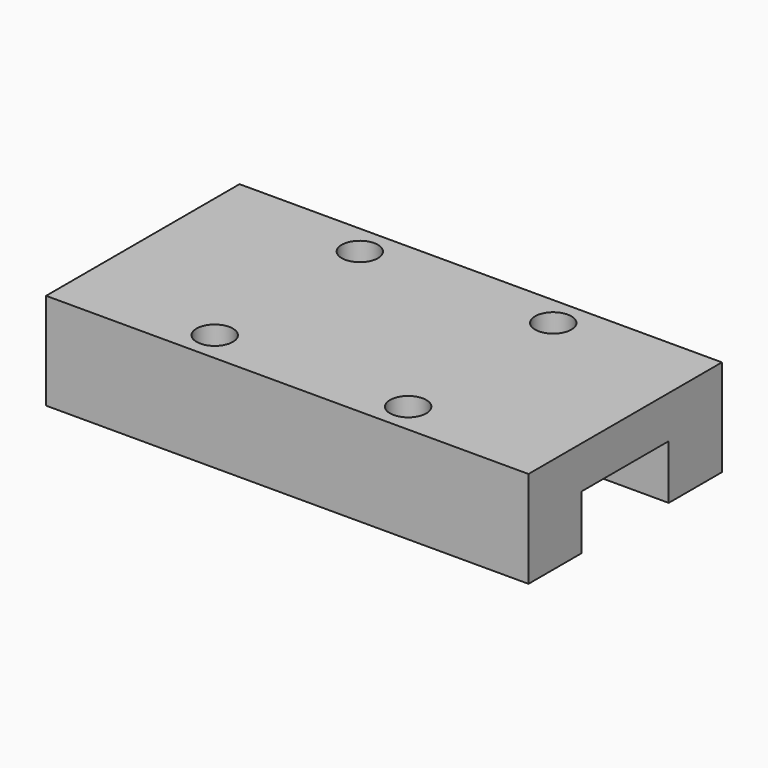
from build123d import *

# Parameters (mm, degrees)
SKETCH_W        = 39.9
SKETCH_H        = 20
PAD_DEPTH       = 8
SKETCH001_W     = 39.9
SKETCH001_H     = 9
POCKET_DEPTH    = 4.5
SKETCH002_R     = 1.5
POCKET001_DEPTH = 4


with BuildPart() as part:
    # Sketch → Pad (new body)
    with BuildSketch(Plane.XY):
        Rectangle(SKETCH_W, SKETCH_H)
    extrude(amount=PAD_DEPTH)

    # Sketch001 (on Face5 of Pad) → Pocket (cut)
    with BuildSketch(Plane(origin=(0, 0, 0), x_dir=(1, 0, 0), z_dir=(0, 0, -1))):
        Rectangle(SKETCH001_W, SKETCH001_H)
    extrude(amount=-POCKET_DEPTH, mode=Mode.SUBTRACT)

    # Sketch002 (on Face8 of Pocket) → Pocket001 (cut)
    with BuildSketch(Plane.XY.offset(8)):
        with Locations((-8, 7.5)):
            Circle(SKETCH002_R)
        with Locations((8, 7.5)):
            Circle(SKETCH002_R)
        with Locations((8, -7.5)):
            Circle(SKETCH002_R)
        with Locations((-8, -7.5)):
            Circle(SKETCH002_R)
    extrude(amount=-POCKET001_DEPTH, mode=Mode.SUBTRACT)


solid = part.part
